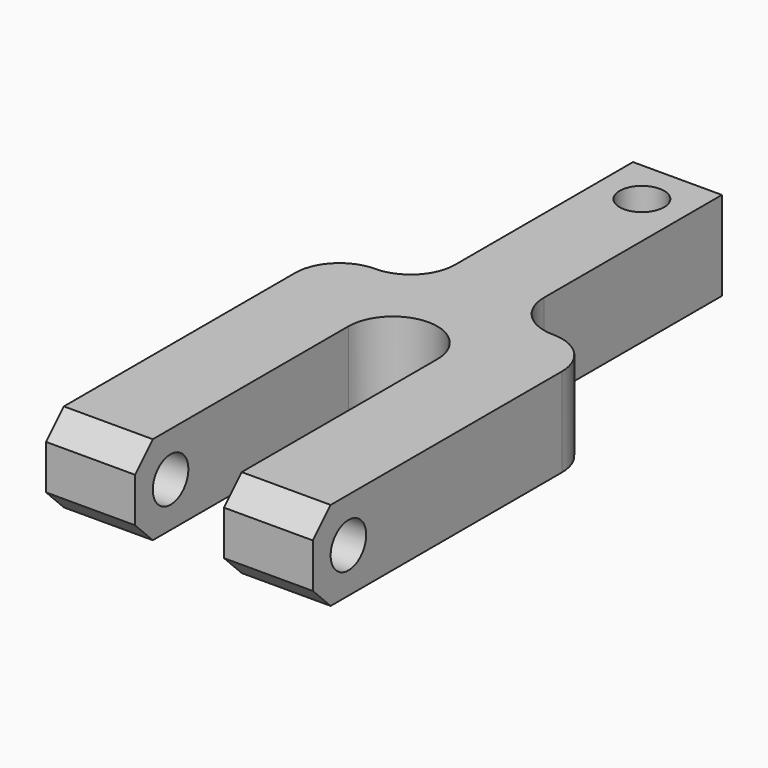
from build123d import *

# Parameters (mm, degrees)
F0_R     = 6.35
F1_DEPTH = 25.4
F2_R     = 6.35
F3_DEPTH = 76.2
F4_SIZE  = 6.35


with BuildPart() as f1:
    # F0 (on Top) → F1 (new body)
    with BuildSketch(Plane.XY):
        with BuildLine():
            Line((25.4, 84.908329), (0, 84.908329))
            Line((0, 84.908329), (0, 21.408329))
            ThreePointArc((0, 21.408329), (-3.719744, 12.428073), (-12.7, 8.708329))
            ThreePointArc((-12.7, 8.708329), (-21.680256, 4.988585), (-25.4, -3.991671))
            Line((-25.4, -3.991671), (-25.4, -92.891671))
            Line((-25.4, -92.891671), (0, -92.891671))
            Line((0, -92.891671), (0, -16.691671))
            ThreePointArc((0, -16.691671), (12.7, -3.991671), (25.4, -16.691671))
            Line((25.4, -16.691671), (25.4, -92.891671))
            Line((25.4, -92.891671), (50.8, -92.891671))
            Line((50.8, -92.891671), (50.8, -3.991671))
            ThreePointArc((50.8, -3.991671), (47.080256, 4.988585), (38.1, 8.708329))
            ThreePointArc((38.1, 8.708329), (29.119744, 12.428073), (25.4, 21.408329))
            Line((25.4, 21.408329), (25.4, 84.908329))
        make_face()
        with Locations((12.7, 72.208329)):
            Circle(F0_R, mode=Mode.SUBTRACT)
    extrude(amount=F1_DEPTH)

    # F2 (on face) → F3 (cut)
    with BuildSketch(Plane(origin=(-25.4, 0, 0), x_dir=(0, -1, 0), z_dir=(-1, 0, 0))):
        with Locations((80.191671, 12.7)):
            Circle(F2_R)
    extrude(amount=-F3_DEPTH, mode=Mode.SUBTRACT)

    # F4
    f4_edges = [f1.edges().sort_by_distance(p)[0] for p in [
        (-12.7, -92.891671, 25.4),
        (-12.7, -92.891671, 0),
        (38.1, -92.891671, 25.4),
        (38.1, -92.891671, 0),
    ]]
    chamfer(f4_edges, length=F4_SIZE)


solid = f1.part
